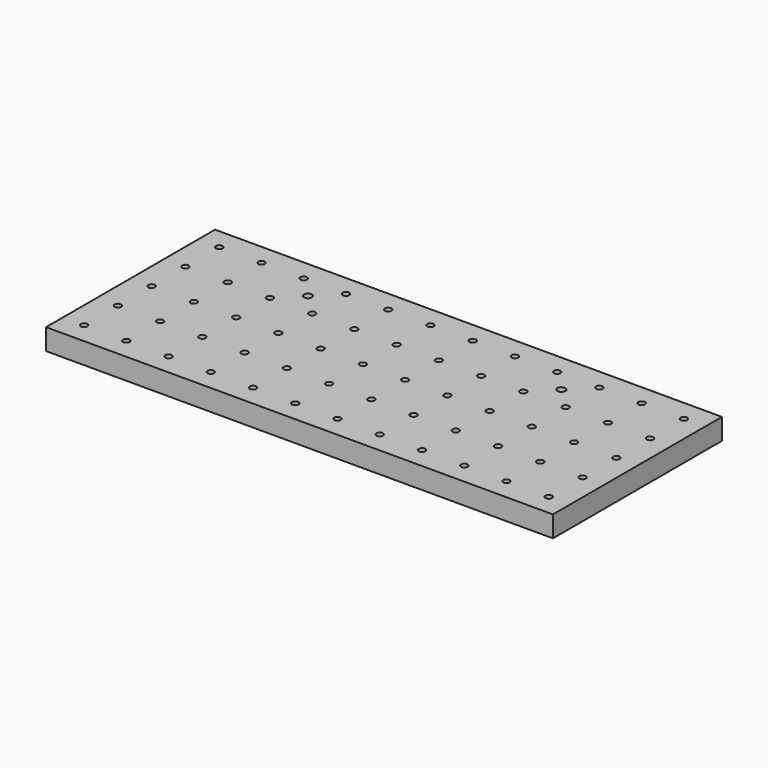
from build123d import *

# Parameters (mm, degrees)
F0_W     = 609.6
F0_H     = 254
F0_R     = 3.9751
F0_R_2   = 4.7625
F1_DEPTH = 25.4


with BuildPart() as f1:
    # F0 (on Top) → F1 (new body)
    with BuildSketch(Plane.XY):
        Rectangle(F0_W, F0_H)
        with Locations((-279.4, -101.6)):
            Circle(F0_R, mode=Mode.SUBTRACT)
        with Locations((-228.6, -101.6)):
            Circle(F0_R, mode=Mode.SUBTRACT)
        with Locations((-177.8, -101.6)):
            Circle(F0_R, mode=Mode.SUBTRACT)
        with Locations((-127, -101.6)):
            Circle(F0_R, mode=Mode.SUBTRACT)
        with Locations((-76.2, -101.6)):
            Circle(F0_R, mode=Mode.SUBTRACT)
        with Locations((-25.4, -101.6)):
            Circle(F0_R, mode=Mode.SUBTRACT)
        with Locations((-279.4, -50.8)):
            Circle(F0_R, mode=Mode.SUBTRACT)
        with Locations((-228.6, -50.8)):
            Circle(F0_R, mode=Mode.SUBTRACT)
        with Locations((-177.8, -50.8)):
            Circle(F0_R, mode=Mode.SUBTRACT)
        with Locations((-127, -50.8)):
            Circle(F0_R, mode=Mode.SUBTRACT)
        with Locations((-76.2, -50.8)):
            Circle(F0_R, mode=Mode.SUBTRACT)
        with Locations((-25.4, -50.8)):
            Circle(F0_R, mode=Mode.SUBTRACT)
        with Locations((25.4, -101.6)):
            Circle(F0_R, mode=Mode.SUBTRACT)
        with Locations((76.2, -101.6)):
            Circle(F0_R, mode=Mode.SUBTRACT)
        with Locations((127, -101.6)):
            Circle(F0_R, mode=Mode.SUBTRACT)
        with Locations((177.8, -101.6)):
            Circle(F0_R, mode=Mode.SUBTRACT)
        with Locations((228.6, -101.6)):
            Circle(F0_R, mode=Mode.SUBTRACT)
        with Locations((279.4, -101.6)):
            Circle(F0_R, mode=Mode.SUBTRACT)
        with Locations((25.4, -50.8)):
            Circle(F0_R, mode=Mode.SUBTRACT)
        with Locations((76.2, -50.8)):
            Circle(F0_R, mode=Mode.SUBTRACT)
        with Locations((127, -50.8)):
            Circle(F0_R, mode=Mode.SUBTRACT)
        with Locations((177.8, -50.8)):
            Circle(F0_R, mode=Mode.SUBTRACT)
        with Locations((228.6, -50.8)):
            Circle(F0_R, mode=Mode.SUBTRACT)
        with Locations((279.4, -50.8)):
            Circle(F0_R, mode=Mode.SUBTRACT)
        with Locations((-279.4, 0)):
            Circle(F0_R, mode=Mode.SUBTRACT)
        with Locations((-228.6, 0)):
            Circle(F0_R, mode=Mode.SUBTRACT)
        with Locations((-177.8, 0)):
            Circle(F0_R, mode=Mode.SUBTRACT)
        with Locations((-279.4, 50.8)):
            Circle(F0_R, mode=Mode.SUBTRACT)
        with Locations((-228.6, 50.8)):
            Circle(F0_R, mode=Mode.SUBTRACT)
        with Locations((-177.8, 50.8)):
            Circle(F0_R, mode=Mode.SUBTRACT)
        with Locations((-127, 0)):
            Circle(F0_R, mode=Mode.SUBTRACT)
        with Locations((-76.2, 0)):
            Circle(F0_R, mode=Mode.SUBTRACT)
        with Locations((-25.4, 0)):
            Circle(F0_R, mode=Mode.SUBTRACT)
        with Locations((-127, 50.8)):
            Circle(F0_R, mode=Mode.SUBTRACT)
        with Locations((-76.2, 50.8)):
            Circle(F0_R, mode=Mode.SUBTRACT)
        with Locations((-25.4, 50.8)):
            Circle(F0_R, mode=Mode.SUBTRACT)
        with Locations((-279.4, 101.6)):
            Circle(F0_R, mode=Mode.SUBTRACT)
        with Locations((-228.6, 101.6)):
            Circle(F0_R, mode=Mode.SUBTRACT)
        with Locations((-177.8, 101.6)):
            Circle(F0_R, mode=Mode.SUBTRACT)
        with Locations((-152.4, 76.2)):
            Circle(F0_R_2, mode=Mode.SUBTRACT)
        with Locations((-127, 101.6)):
            Circle(F0_R, mode=Mode.SUBTRACT)
        with Locations((-76.2, 101.6)):
            Circle(F0_R, mode=Mode.SUBTRACT)
        with Locations((-25.4, 101.6)):
            Circle(F0_R, mode=Mode.SUBTRACT)
        with Locations((25.4, 0)):
            Circle(F0_R, mode=Mode.SUBTRACT)
        with Locations((76.2, 0)):
            Circle(F0_R, mode=Mode.SUBTRACT)
        with Locations((127, 0)):
            Circle(F0_R, mode=Mode.SUBTRACT)
        with Locations((25.4, 50.8)):
            Circle(F0_R, mode=Mode.SUBTRACT)
        with Locations((76.2, 50.8)):
            Circle(F0_R, mode=Mode.SUBTRACT)
        with Locations((127, 50.8)):
            Circle(F0_R, mode=Mode.SUBTRACT)
        with Locations((177.8, 0)):
            Circle(F0_R, mode=Mode.SUBTRACT)
        with Locations((228.6, 0)):
            Circle(F0_R, mode=Mode.SUBTRACT)
        with Locations((279.4, 0)):
            Circle(F0_R, mode=Mode.SUBTRACT)
        with Locations((177.8, 50.8)):
            Circle(F0_R, mode=Mode.SUBTRACT)
        with Locations((228.6, 50.8)):
            Circle(F0_R, mode=Mode.SUBTRACT)
        with Locations((279.4, 50.8)):
            Circle(F0_R, mode=Mode.SUBTRACT)
        with Locations((25.4, 101.6)):
            Circle(F0_R, mode=Mode.SUBTRACT)
        with Locations((76.2, 101.6)):
            Circle(F0_R, mode=Mode.SUBTRACT)
        with Locations((127, 101.6)):
            Circle(F0_R, mode=Mode.SUBTRACT)
        with Locations((152.4, 76.2)):
            Circle(F0_R_2, mode=Mode.SUBTRACT)
        with Locations((177.8, 101.6)):
            Circle(F0_R, mode=Mode.SUBTRACT)
        with Locations((228.6, 101.6)):
            Circle(F0_R, mode=Mode.SUBTRACT)
        with Locations((279.4, 101.6)):
            Circle(F0_R, mode=Mode.SUBTRACT)
    extrude(amount=-F1_DEPTH)


solid = f1.part
